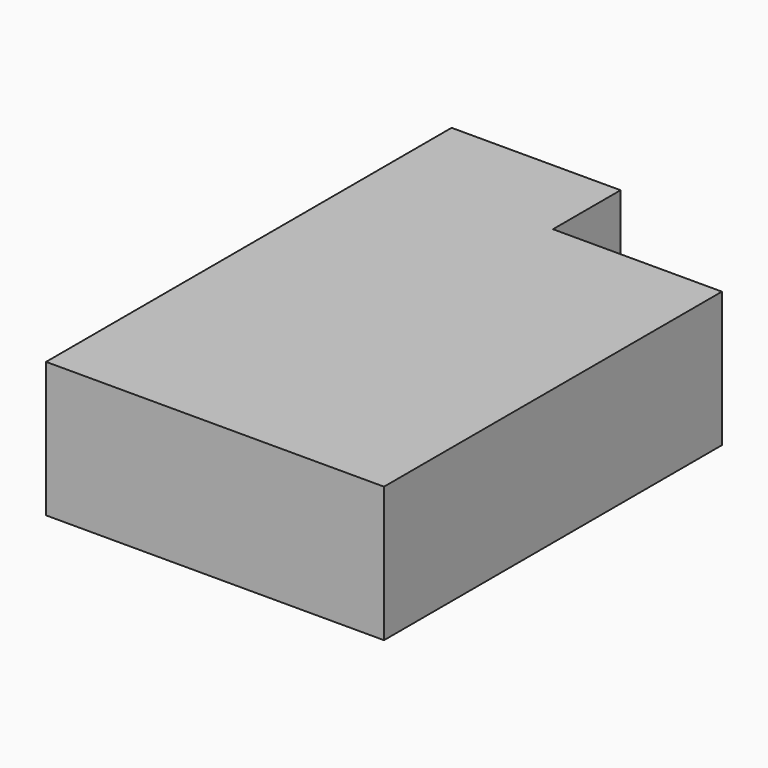
from build123d import *


with BuildPart() as f2:
    # F2: sweep along a path in F1
    with BuildLine(Plane.XZ) as f2_path:
        Line((0, 0), (0, 8))
    # F0 (on Top) → F2 (sweep)
    with BuildSketch(Plane.XY):
        Polygon((10, -12.5), (10, 12.5), (0, 12.5), (0, 17.5), (-10, 17.5), (-10, 12.5), (-10, -12.5), align=None)
    sweep(path=f2_path.line)


solid = f2.part
